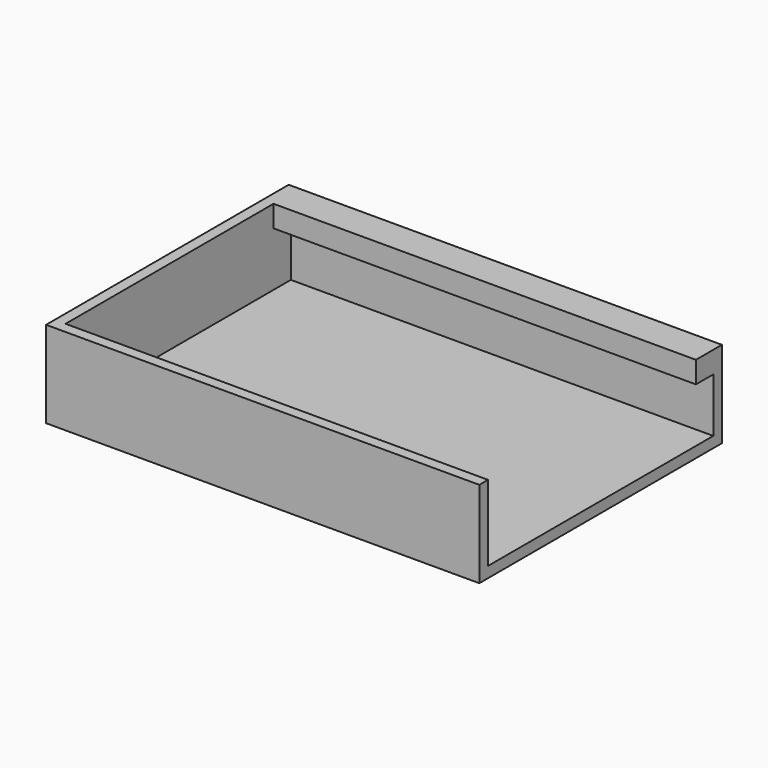
from build123d import *

# Parameters (mm, degrees)
F0_W     = 115
F0_H     = 120
F0_H_2   = 10
F1_DEPTH = 5
F2_DEPTH = 35
F3_DEPTH = 25
F4_DEPTH = 80


with BuildPart() as f1:
    # F0 (on Top) → F1 (new body)
    with BuildSketch(Plane.XY):
        with Locations((-57.5, -75)):
            Rectangle(F0_W, F0_H)
        Polygon((0, -5), (0, 0), (-115, 0), (-120, 0), (-120, -140), (-115, -140), (0, -140), (0, -135), (-115, -135), (-115, -15), (-115, -5), align=None)
        with Locations((-57.5, -10)):
            Rectangle(F0_W, F0_H_2)
    extrude(amount=-F1_DEPTH)

    # F0 (on Top) → F2 (join)
    with BuildSketch(Plane.XY):
        with Locations((-57.5, -10)):
            Rectangle(F0_W, F0_H_2)
        Polygon((0, -5), (0, 0), (-115, 0), (-120, 0), (-120, -140), (-115, -140), (0, -140), (0, -135), (-115, -135), (-115, -15), (-115, -5), align=None)
    extrude(amount=F2_DEPTH)

    # F0 (on Top) → F3 (cut)
    with BuildSketch(Plane.XY):
        with Locations((-57.5, -10)):
            Rectangle(F0_W, F0_H_2)
    extrude(amount=F3_DEPTH, mode=Mode.SUBTRACT)

    # F2_face (on face) → F4 (join)
    with BuildSketch(Plane(origin=(0, -64.782609, 6.413043), x_dir=(0, 1, 0), z_dir=(1, 0, 0))):
        Polygon((-75.217391, 28.586957), (-75.217391, -11.413043), (64.782609, -11.413043), (64.782609, 28.586957), (49.782609, 28.586957), (49.782609, 18.586957), (59.782609, 18.586957), (59.782609, -6.413043), (-70.217391, -6.413043), (-70.217391, 28.586957), align=None)
    extrude(amount=F4_DEPTH)


solid = f1.part
